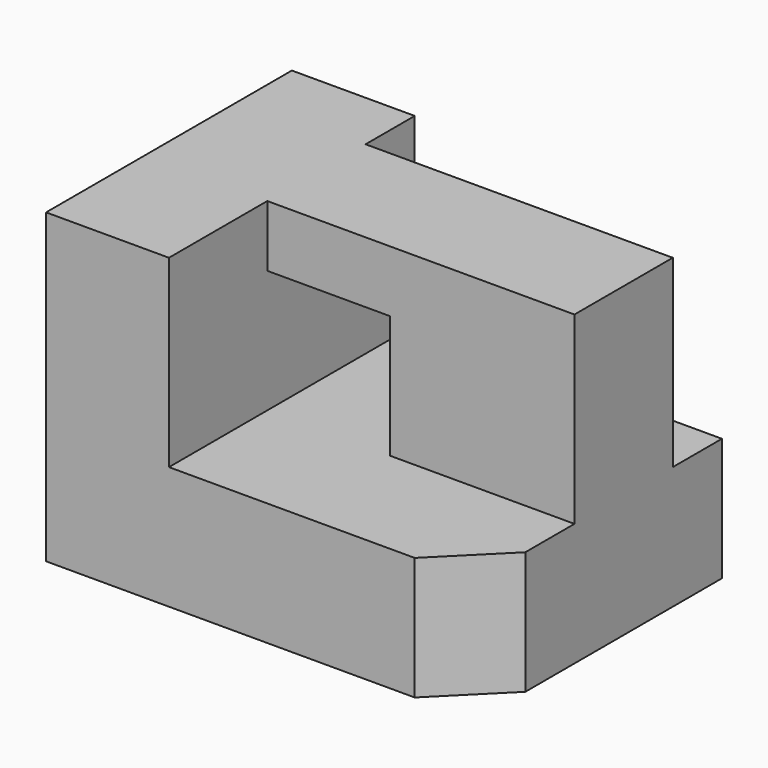
from build123d import *

# Parameters (mm, degrees)
F0_W     = 70
F0_H     = 50
F1_DEPTH = 50
F2_W     = 50
F2_H     = 20
F3_DEPTH = 30
F4_W     = 50
F4_H     = 10
F5_DEPTH = 30
F6_W     = 20
F6_H     = 20
F7_DEPTH = 20
F8_SIZE  = 10


with BuildPart() as f1:
    # F0 (on Top) → F1 (new body)
    with BuildSketch(Plane.XY):
        with Locations((35, 25)):
            Rectangle(F0_W, F0_H)
        with Locations((35, 25)):
            Rectangle(F0_W, F0_H)
    extrude(amount=F1_DEPTH)

    # F2 (on face) → F3 (cut)
    with BuildSketch(Plane.XY.offset(50)):
        with Locations((45, 10)):
            Rectangle(F2_W, F2_H)
    extrude(amount=-F3_DEPTH, mode=Mode.SUBTRACT)

    # F4 (on face) → F5 (cut)
    with BuildSketch(Plane.XY.offset(50)):
        with Locations((45, 45)):
            Rectangle(F4_W, F4_H)
    extrude(amount=-F5_DEPTH, mode=Mode.SUBTRACT)

    # F6 (on face) → F7 (cut, through all)
    with BuildSketch(Plane.XZ.offset(-20)):
        with Locations((30, 30)):
            Rectangle(F6_W, F6_H)
        with Locations((30, 30)):
            Rectangle(F6_W, F6_H)
    extrude(amount=-F7_DEPTH, mode=Mode.SUBTRACT)

    # F8
    f8_edges = [f1.edges().sort_by_distance(p)[0] for p in [
        (70, 0, 10),
    ]]
    chamfer(f8_edges, length=F8_SIZE)


solid = f1.part
